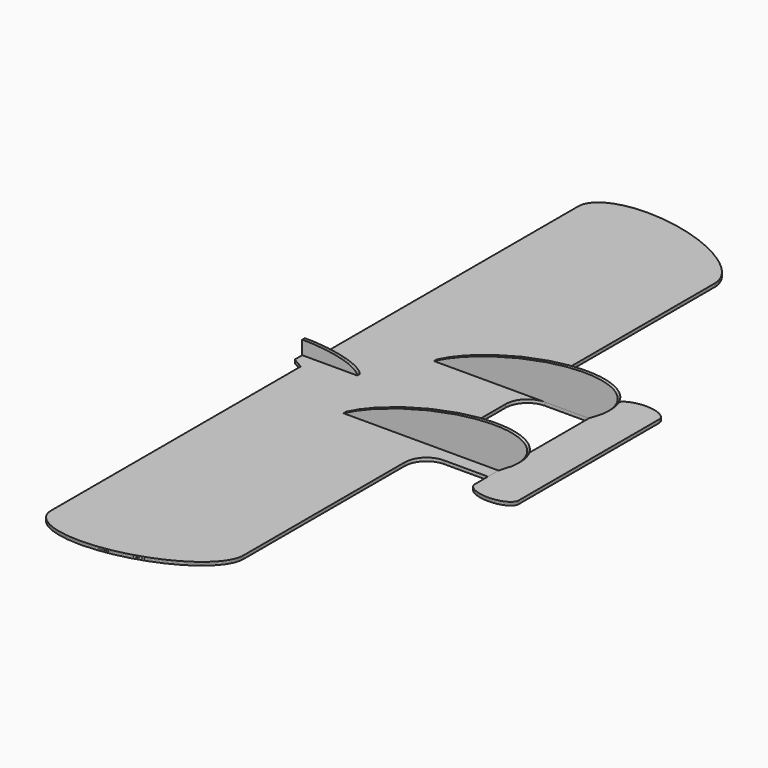
from build123d import *

# Parameters (mm, degrees)
F1_DEPTH  = 1.5
F4_DEPTH  = 1.5
F7_DEPTH  = 3
F9_R      = 20
F11_DEPTH = 1.5


with BuildPart() as f1:
    # F0 (on Top) → F1 (new body, symmetric)
    with BuildSketch(Plane.XY):
        with BuildLine():
            add(Edge.make_bspline(
                [(135.9451361005, 300), (10, 382.3042689185), (10, 300)],
                knots=[0.9451087561, 0.9451087561, 0.9451087561, 3.2626704882, 3.2626704882, 3.2626704882], degree=2, weights=[1, 0.4004569382, 1]))
            Line((10, 300), (135.9451361005, 300))
        make_face()
        with BuildLine():
            Line((135.9451361005, 300), (10, 300))
            add(Edge.make_bspline(
                [(10, 300), (10, 266.1448048575), (80.4623541034, 249.327885317), (150.9247082069, 232.5109657765), (159.4509271925, 264.3312482271)],
                knots=[3.2626704882, 3.2626704882, 3.2626704882, 4.7729278977, 4.7729278977, 6.2831853072, 6.2831853072, 6.2831853072], degree=2, weights=[1, 0.7281833372, 1, 0.7281833372, 1]))
            add(Edge.make_bspline(
                [(159.4509271925, 264.3312482271), (160, 266.3804158418), (160, 268.5606280881)],
                knots=[0, 0, 0, 0.1210778346, 0.1210778346, 0.1210778346], degree=2, weights=[1, 0.9981680793, 1]))
            add(Edge.make_bspline(
                [(160, 268.5606280881), (160, 284.280314044), (135.9451361005, 300)],
                knots=[0.1210778346, 0.1210778346, 0.1210778346, 0.9451087561, 0.9451087561, 0.9451087561], degree=2, weights=[1, 0.9163155792, 1]))
        make_face()
        with BuildLine():
            Line((0, 10), (0, 0))
            Line((0, 0), (160, 0))
            Line((160, 0), (160, 50))
            Line((160, 50), (220, 50))
            Line((220, 50), (220, 65))
            Line((220, 65), (160, 65))
            Line((160, 65), (160, 268.5606280881))
            add(Edge.make_bspline(
                [(159.4509271925, 264.3312482271), (160, 266.3804158418), (160, 268.5606280881)],
                knots=[0, 0, 0, 0.1210778346, 0.1210778346, 0.1210778346], degree=2, weights=[1, 0.9981680793, 1]))
            add(Edge.make_bspline(
                [(10, 300), (10, 266.1448048575), (80.4623541034, 249.327885317), (150.9247082069, 232.5109657765), (159.4509271925, 264.3312482271)],
                knots=[3.2626704882, 3.2626704882, 3.2626704882, 4.7729278977, 4.7729278977, 6.2831853072, 6.2831853072, 6.2831853072], degree=2, weights=[1, 0.7281833372, 1, 0.7281833372, 1]))
            Line((10, 300), (10, 15.7735026919))
            Line((10, 15.7735026919), (0, 10))
        make_face()
    extrude(amount=F1_DEPTH, both=True)

    # F2: F1 across plane


with BuildPart() as f1_1:
    add(f1.part)
    add(f1.part.mirror(Plane.XZ))

    # F9
    f9_edges = [f1_1.edges().sort_by_distance(p)[0] for p in [
        (160, -65, 0),
        (160, 65, 0),
        (160, -50, 0),
        (160, 50, 0),
    ]]
    fillet(f9_edges, radius=F9_R)


with BuildPart() as f4:
    # F3 (on Front) → F4 (new body, symmetric)
    with BuildSketch(Plane.XZ):
        with BuildLine():
            Line((0, 1.5), (50, 1.5))
            add(Edge.make_bspline(
                [(50, 1.5), (50, 14), (0, 14)],
                knots=[3.1415926536, 3.1415926536, 3.1415926536, 4.7123889804, 4.7123889804, 4.7123889804], degree=2, weights=[1, 0.7071067812, 1]))
            Line((0, 14), (0, 1.5))
        make_face()
    extrude(amount=F4_DEPTH, both=True)


with BuildPart() as f5_1:
    # F5: instance of F4
    add(f4.part.mirror(Plane.XY))


with BuildPart() as f7:
    # F6 (on face) → F7 (new body)
    with BuildSketch(Plane.XZ.offset(-50)):
        with BuildLine():
            add(Edge.make_bspline(
                [(220, 1.5), (248.7791912286, 16.8858120428), (245.9667717283, 27.3819045103)],
                knots=[5.4631466565, 5.4631466565, 5.4631466565, 6.2831853072, 6.2831853072, 6.2831853072], degree=2, weights=[1, 0.9171131194, 1]))
            add(Edge.make_bspline(
                [(245.9667717283, 27.3819045103), (231.0802793994, 82.9390502283), (78.7483781988, 1.5)],
                knots=[0, 0, 0, 2.3215540029, 2.3215540029, 2.3215540029], degree=2, weights=[1, 0.3986270516, 1]))
            Line((78.7483781988, 1.5), (160, 1.5))
            Line((160, 1.5), (220, 1.5))
        make_face()
    extrude(amount=-F7_DEPTH)


with BuildPart() as f8_1:
    # F8: instance of F7
    add(f7.part.mirror(Plane.XZ))


with BuildPart() as f11:
    # F10 (on Top) → F11 (new body, symmetric)
    with BuildSketch(Plane.XY):
        with BuildLine():
            add(Edge.make_bspline(
                [(260, 80), (260, 90), (240, 90), (220, 90), (220, 80)],
                knots=[3.1415926536, 3.1415926536, 3.1415926536, 4.7123889804, 4.7123889804, 6.2831853072, 6.2831853072, 6.2831853072], degree=2, weights=[1, 0.7071067812, 1, 0.7071067812, 1]))
            Line((220, 80), (260, 80))
        make_face()
        with BuildLine():
            add(Edge.make_bspline(
                [(220, 80), (220, 70), (240, 70), (260, 70), (260, 80)],
                knots=[0, 0, 0, 1.5707963268, 1.5707963268, 3.1415926536, 3.1415926536, 3.1415926536], degree=2, weights=[1, 0.7071067812, 1, 0.7071067812, 1]))
            Line((220, 80), (220, 0))
            Line((220, 0), (260, 0))
            Line((260, 0), (260, 80))
        make_face()
        with BuildLine():
            Line((260, 80), (220, 80))
            add(Edge.make_bspline(
                [(220, 80), (220, 70), (240, 70), (260, 70), (260, 80)],
                knots=[0, 0, 0, 1.5707963268, 1.5707963268, 3.1415926536, 3.1415926536, 3.1415926536], degree=2, weights=[1, 0.7071067812, 1, 0.7071067812, 1]))
        make_face()
    extrude(amount=F11_DEPTH, both=True)

    # F12: F11 across plane


with BuildPart() as f11_1:
    add(f11.part)
    add(f11.part.mirror(Plane.XZ))


solid = Compound([f1_1.part, f4.part, f5_1.part, f7.part, f8_1.part, f11_1.part])
